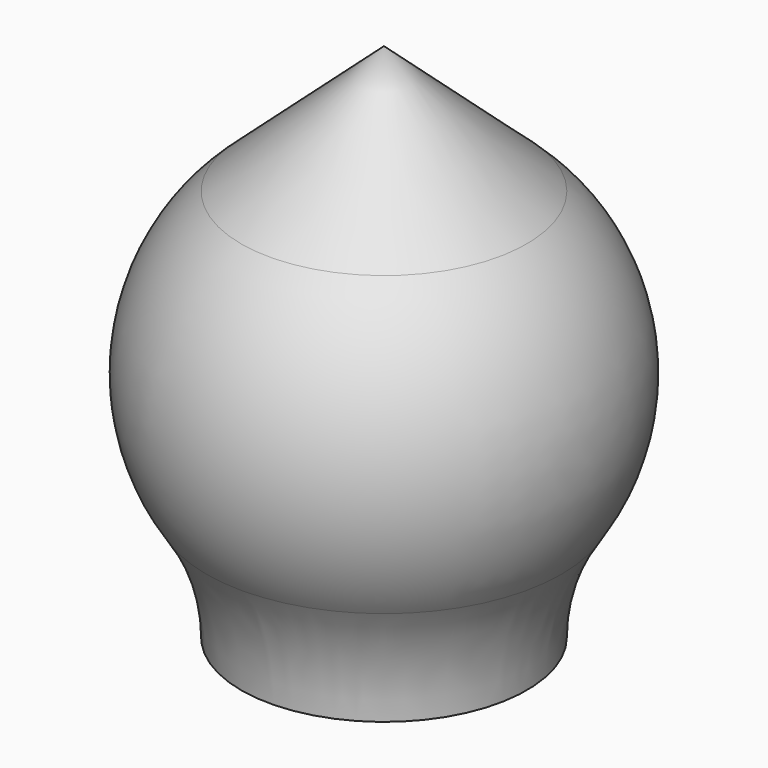
from build123d import *

# Parameters (mm, degrees)
F2_T = -0.5


with BuildPart() as f1:
    # F0 (on Front) → F1 (revolve)
    with BuildSketch(Plane.XZ):
        with BuildLine():
            Line((0, 30.186918), (-15, 16.77051))
            ThreePointArc((-15, 16.77051), (-22.328713, 2.771025), (-18.644326, -12.595202))
            ThreePointArc((-18.644326, -12.595202), (-15.931481, -18.274943), (-15, -24.5))
            Line((-15, -24.5), (0, -24.5))
            Line((0, -24.5), (0, 30.186918))
        make_face()
    revolve(axis=Axis((0, 0, -14.42638), (0, 0, -1)))

    # F2
    f2_openings = [f1.faces().sort_by_distance(p)[0] for p in [
        (0, 0, -24.5),
    ]]
    offset(amount=F2_T, openings=f2_openings)


solid = f1.part
